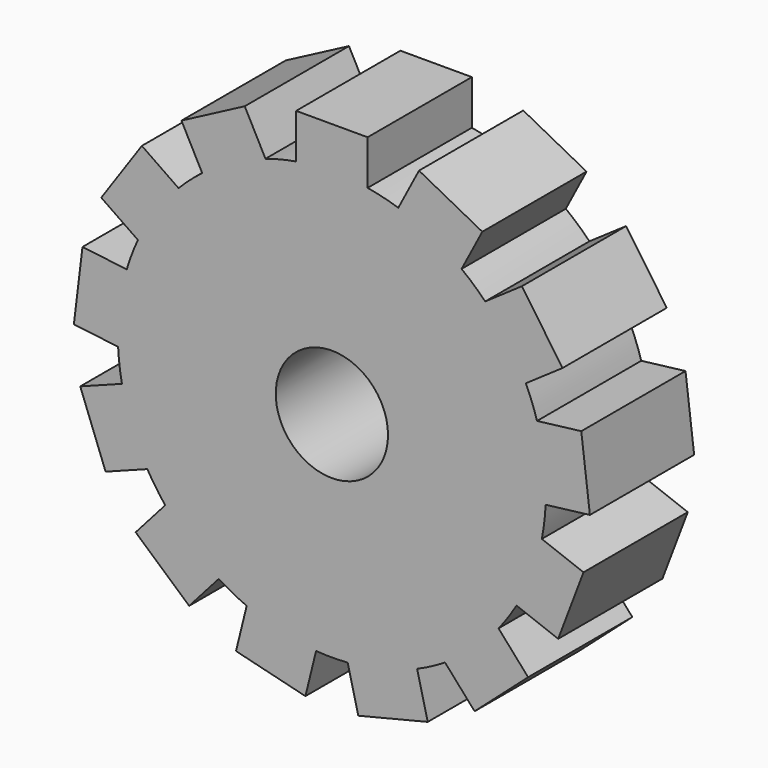
from build123d import *

# Parameters (mm, degrees)
F0_R     = 10.769263
F1_DEPTH = 25


with BuildPart() as f1:
    # F0 (on Front) → F1 (new body)
    with BuildSketch(Plane.XZ):
        with BuildLine():
            ThreePointArc((41.013222, -1.92807), (41.047192, -0.964301), (41.058517, 0))
            ThreePointArc((41.058517, 0), (40.631678, 5.904962), (39.360035, 11.68715))
            ThreePointArc((39.360035, 11.68715), (38.390381, 14.559551), (37.211423, 17.352574))
            ThreePointArc((37.211423, 17.352574), (33.790497, 23.323896), (29.420291, 28.639978))
            ThreePointArc((29.420291, 28.639978), (27.226833, 30.732742), (24.884936, 32.657952))
            ThreePointArc((24.884936, 32.657952), (19.080844, 36.355512), (12.740712, 39.031732))
            ThreePointArc((12.740712, 39.031732), (9.825946, 39.865431), (6.85761, 40.481786))
            ThreePointArc((6.85761, 40.481786), (0, 41.058517), (-6.85761, 40.481786))
            ThreePointArc((-6.85761, 40.481786), (-9.825946, 39.865431), (-12.740712, 39.031732))
            ThreePointArc((-12.740712, 39.031732), (-19.080844, 36.355512), (-24.884936, 32.657952))
            ThreePointArc((-24.884936, 32.657952), (-27.226833, 30.732742), (-29.420291, 28.639978))
            ThreePointArc((-29.420291, 28.639978), (-33.790497, 23.323896), (-37.211423, 17.352574))
            ThreePointArc((-37.211423, 17.352574), (-38.390381, 14.559551), (-39.360035, 11.68715))
            ThreePointArc((-39.360035, 11.68715), (-40.759155, 4.949057), (-41.013222, -1.92807))
            ThreePointArc((-41.013222, -1.92807), (-40.759155, -4.949057), (-40.28287, -7.943063))
            ThreePointArc((-40.28287, -7.943063), (-38.390381, -14.559551), (-35.419386, -20.767016))
            ThreePointArc((-35.419386, -20.767016), (-33.790497, -23.323896), (-31.977384, -25.753616))
            ThreePointArc((-31.977384, -25.753616), (-27.226833, -30.732742), (-21.711395, -34.848489))
            ThreePointArc((-21.711395, -34.848489), (-19.080844, -36.355512), (-16.346266, -37.664326))
            ThreePointArc((-16.346266, -37.664326), (-9.825946, -39.865431), (-3.029586, -40.946593))
            ThreePointArc((-3.029586, -40.946593), (0, -41.058517), (3.029586, -40.946593))
            ThreePointArc((3.029586, -40.946593), (9.825946, -39.865431), (16.346266, -37.664326))
            ThreePointArc((16.346266, -37.664326), (19.080844, -36.355512), (21.711395, -34.848489))
            ThreePointArc((21.711395, -34.848489), (27.226833, -30.732742), (31.977384, -25.753616))
            ThreePointArc((31.977384, -25.753616), (33.790497, -23.323896), (35.419386, -20.767016))
            ThreePointArc((35.419386, -20.767016), (38.390381, -14.559551), (40.28287, -7.943063))
            ThreePointArc((40.28287, -7.943063), (40.759155, -4.949057), (41.013222, -1.92807))
        make_face()
        Circle(F0_R, mode=Mode.SUBTRACT)
        with BuildLine():
            ThreePointArc((39.360035, 11.68715), (40.631678, 5.904962), (41.058517, 0))
            ThreePointArc((41.058517, 0), (41.047192, -0.964301), (41.013222, -1.92807))
            Line((41.013222, -1.92807), (49.50533, -0.896941))
            Line((49.50533, -0.896941), (47.852143, 12.718279))
            Line((47.852143, 12.718279), (39.360035, 11.68715))
        make_face()
        with BuildLine():
            ThreePointArc((29.420291, 28.639978), (33.790497, 23.323896), (37.211423, 17.352574))
            Line((37.211423, 17.352574), (44.251622, 22.212072))
            Line((44.251622, 22.212072), (36.460489, 33.499476))
            Line((36.460489, 33.499476), (29.420291, 28.639978))
        make_face()
        with BuildLine():
            Line((48.281447, -10.976523), (40.28287, -7.943063))
            ThreePointArc((40.28287, -7.943063), (38.390381, -14.559551), (35.419386, -20.767016))
            Line((35.419386, -20.767016), (43.417963, -23.800476))
            Line((43.417963, -23.800476), (48.281447, -10.976523))
        make_face()
        with BuildLine():
            ThreePointArc((12.740712, 39.031732), (19.080844, 36.355512), (24.884936, 32.657952))
            Line((24.884936, 32.657952), (28.860401, 40.232567))
            Line((28.860401, 40.232567), (16.716177, 46.606347))
            Line((16.716177, 46.606347), (12.740712, 39.031732))
        make_face()
        with BuildLine():
            Line((37.650053, -32.156736), (31.977384, -25.753616))
            ThreePointArc((31.977384, -25.753616), (27.226833, -30.732742), (21.711395, -34.848489))
            Line((21.711395, -34.848489), (27.384064, -41.251608))
            Line((27.384064, -41.251608), (37.650053, -32.156736))
        make_face()
        with BuildLine():
            ThreePointArc((-6.85761, 40.481786), (0, 41.058517), (6.85761, 40.481786))
            Line((6.85761, 40.481786), (6.85761, 49.036266))
            Line((6.85761, 49.036266), (-6.85761, 49.036266))
            Line((-6.85761, 49.036266), (-6.85761, 40.481786))
        make_face()
        with BuildLine():
            Line((18.393487, -45.970228), (16.346266, -37.664326))
            ThreePointArc((16.346266, -37.664326), (9.825946, -39.865431), (3.029586, -40.946593))
            Line((3.029586, -40.946593), (5.076807, -49.252495))
            Line((5.076807, -49.252495), (18.393487, -45.970228))
        make_face()
        with BuildLine():
            ThreePointArc((-24.884936, 32.657952), (-19.080844, 36.355512), (-12.740712, 39.031732))
            Line((-12.740712, 39.031732), (-16.716177, 46.606347))
            Line((-16.716177, 46.606347), (-28.860401, 40.232567))
            Line((-28.860401, 40.232567), (-24.884936, 32.657952))
        make_face()
        with BuildLine():
            Line((-5.076807, -49.252495), (-3.029586, -40.946593))
            ThreePointArc((-3.029586, -40.946593), (-9.825946, -39.865431), (-16.346266, -37.664326))
            Line((-16.346266, -37.664326), (-18.393487, -45.970228))
            Line((-18.393487, -45.970228), (-5.076807, -49.252495))
        make_face()
        with BuildLine():
            ThreePointArc((-37.211423, 17.352574), (-33.790497, 23.323896), (-29.420291, 28.639978))
            Line((-29.420291, 28.639978), (-36.460489, 33.499476))
            Line((-36.460489, 33.499476), (-44.251622, 22.212072))
            Line((-44.251622, 22.212072), (-37.211423, 17.352574))
        make_face()
        with BuildLine():
            Line((-27.384064, -41.251608), (-21.711395, -34.848489))
            ThreePointArc((-21.711395, -34.848489), (-27.226833, -30.732742), (-31.977384, -25.753616))
            Line((-31.977384, -25.753616), (-37.650053, -32.156736))
            Line((-37.650053, -32.156736), (-27.384064, -41.251608))
        make_face()
        with BuildLine():
            ThreePointArc((-41.013222, -1.92807), (-40.759155, 4.949057), (-39.360035, 11.68715))
            Line((-39.360035, 11.68715), (-47.852143, 12.718279))
            Line((-47.852143, 12.718279), (-49.50533, -0.896941))
            Line((-49.50533, -0.896941), (-41.013222, -1.92807))
        make_face()
        with BuildLine():
            Line((-43.417963, -23.800476), (-35.419386, -20.767016))
            ThreePointArc((-35.419386, -20.767016), (-38.390381, -14.559551), (-40.28287, -7.943063))
            Line((-40.28287, -7.943063), (-48.281447, -10.976523))
            Line((-48.281447, -10.976523), (-43.417963, -23.800476))
        make_face()
    extrude(amount=F1_DEPTH)


solid = f1.part
